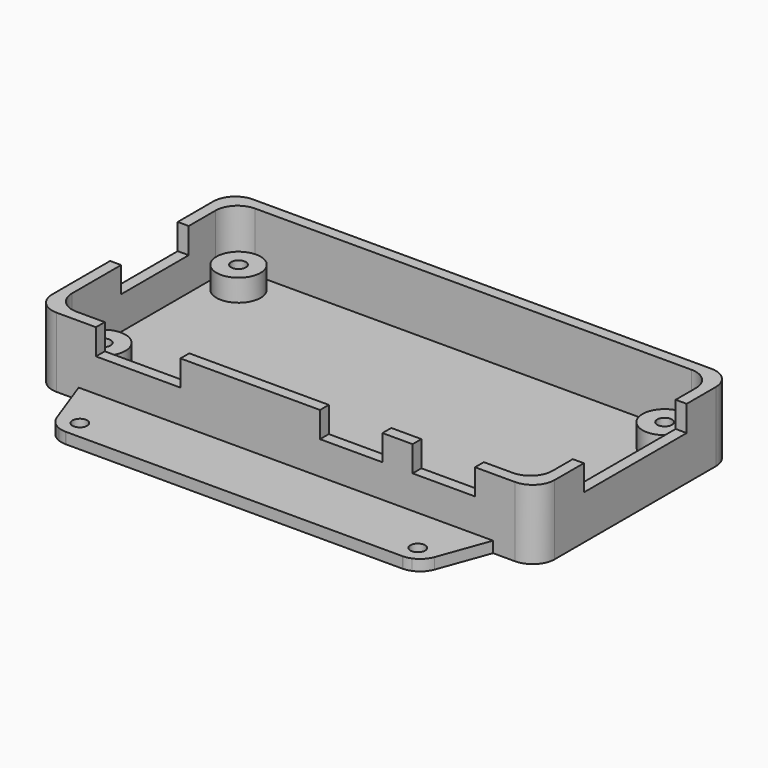
from build123d import *

# Parameters (mm, degrees)
F0_R     = 3
F0_W     = 19
F0_H     = 1.5
F0_R_2   = 1
F0_W_2   = 1.5
F0_H_2   = 17.5
F0_H_3   = 11.5
F0_W_3   = 11.5
F0_W_4   = 8.5
F0_W_5   = 4.1
F1_DEPTH = 1.5
F2_DEPTH = 3
F3_DEPTH = 8
F4_DEPTH = 4.5
F5_R     = 1
F6_DEPTH = 1.5


with BuildPart() as f1:
    # F0 (on Top) → F1 (new body)
    with BuildSketch(Plane.XY):
        with BuildLine():
            Line((29.7, 15.2), (-29.7, 15.2))
            ThreePointArc((-29.7, 15.2), (-31.8213203436, 14.3213203436), (-32.7, 12.2))
            Line((-32.7, 12.2), (-32.7, 7.65))
            Line((-32.7, 7.65), (-32.7, -3.85))
            Line((-32.7, -3.85), (-32.7, -12.2))
            ThreePointArc((-32.7, -12.2), (-31.8213203436, -14.3213203436), (-29.7, -15.2))
            Line((-29.7, -15.2), (-25.85, -15.2))
            Line((-25.85, -15.2), (-14.35, -15.2))
            Line((-14.35, -15.2), (4.65, -15.2))
            Line((4.65, -15.2), (13.15, -15.2))
            Line((13.15, -15.2), (17.25, -15.2))
            Line((17.25, -15.2), (25.75, -15.2))
            Line((25.75, -15.2), (29.7, -15.2))
            ThreePointArc((29.7, -15.2), (31.8213203436, -14.3213203436), (32.7, -12.2))
            Line((32.7, -12.2), (32.7, -8.75))
            Line((32.7, -8.75), (32.7, 8.75))
            Line((32.7, 8.75), (32.7, 12.2))
            ThreePointArc((32.7, 12.2), (31.8213203436, 14.3213203436), (29.7, 15.2))
        make_face()
        with Locations((-29, -11.5)):
            Circle(F0_R, mode=Mode.SUBTRACT)
        with Locations((29, -11.5)):
            Circle(F0_R, mode=Mode.SUBTRACT)
        with Locations((-29, 11.5)):
            Circle(F0_R, mode=Mode.SUBTRACT)
        with Locations((29, 11.5)):
            Circle(F0_R, mode=Mode.SUBTRACT)
        with BuildLine():
            ThreePointArc((-32.7, 12.2), (-31.8213203436, 14.3213203436), (-29.7, 15.2))
            Line((-29.7, 15.2), (29.7, 15.2))
            ThreePointArc((29.7, 15.2), (31.8213203436, 14.3213203436), (32.7, 12.2))
            Line((32.7, 12.2), (32.7, 8.75))
            Line((32.7, 8.75), (34.2, 8.75))
            Line((34.2, 8.75), (34.2, 13.7))
            ThreePointArc((34.2, 13.7), (33.3213203436, 15.8213203436), (31.2, 16.7))
            Line((31.2, 16.7), (-31.2, 16.7))
            ThreePointArc((-31.2, 16.7), (-33.3213203436, 15.8213203436), (-34.2, 13.7))
            Line((-34.2, 13.7), (-34.2, 7.65))
            Line((-34.2, 7.65), (-32.7, 7.65))
            Line((-32.7, 7.65), (-32.7, 12.2))
        make_face()
        with BuildLine():
            Line((-32.7, -12.2), (-32.7, -3.85))
            Line((-32.7, -3.85), (-34.2, -3.85))
            Line((-34.2, -3.85), (-34.2, -13.7))
            ThreePointArc((-34.2, -13.7), (-33.3213203436, -15.8213203436), (-31.2, -16.7))
            Line((-31.2, -16.7), (-25.85, -16.7))
            Line((-25.85, -16.7), (-25.85, -15.2))
            Line((-25.85, -15.2), (-29.7, -15.2))
            ThreePointArc((-29.7, -15.2), (-31.8213203436, -14.3213203436), (-32.7, -12.2))
        make_face()
        with Locations((-4.85, -15.95)):
            Rectangle(F0_W, F0_H)
        with Locations((-29, -11.5)):
            Circle(F0_R)
        with Locations((-29, -11.5)):
            Circle(F0_R_2, mode=Mode.SUBTRACT)
        with Locations((-29, 11.5)):
            Circle(F0_R)
        with Locations((-29, 11.5)):
            Circle(F0_R_2, mode=Mode.SUBTRACT)
        with Locations((29, -11.5)):
            Circle(F0_R)
        with Locations((29, -11.5)):
            Circle(F0_R_2, mode=Mode.SUBTRACT)
        with Locations((29, 11.5)):
            Circle(F0_R)
        with Locations((29, 11.5)):
            Circle(F0_R_2, mode=Mode.SUBTRACT)
        with Locations((33.45, 0)):
            Rectangle(F0_W_2, F0_H_2)
        with BuildLine():
            Line((34.2, -8.75), (32.7, -8.75))
            Line((32.7, -8.75), (32.7, -12.2))
            ThreePointArc((32.7, -12.2), (31.8213203436, -14.3213203436), (29.7, -15.2))
            Line((29.7, -15.2), (25.75, -15.2))
            Line((25.75, -15.2), (25.75, -16.7))
            Line((25.75, -16.7), (31.2, -16.7))
            ThreePointArc((31.2, -16.7), (33.3213203436, -15.8213203436), (34.2, -13.7))
            Line((34.2, -13.7), (34.2, -8.75))
        make_face()
        with Locations((-33.45, 1.9)):
            Rectangle(F0_W_2, F0_H_3)
        with Locations((-20.1, -15.95)):
            Rectangle(F0_W_3, F0_H)
        with Locations((21.5, -15.95)):
            Rectangle(F0_W_4, F0_H)
        with Locations((8.9, -15.95)):
            Rectangle(F0_W_4, F0_H)
        with Locations((15.2, -15.95)):
            Rectangle(F0_W_5, F0_H)
        with Locations((-29, -11.5)):
            Circle(F0_R_2)
        with Locations((-29, 11.5)):
            Circle(F0_R_2)
        with Locations((29, -11.5)):
            Circle(F0_R_2)
        with Locations((29, 11.5)):
            Circle(F0_R_2)
    extrude(amount=-F1_DEPTH)

    # F0 (on Top) → F2 (join)
    with BuildSketch(Plane.XY):
        with Locations((-29, 11.5)):
            Circle(F0_R)
        with Locations((-29, 11.5)):
            Circle(F0_R_2, mode=Mode.SUBTRACT)
        with Locations((-29, -11.5)):
            Circle(F0_R)
        with Locations((-29, -11.5)):
            Circle(F0_R_2, mode=Mode.SUBTRACT)
        with Locations((29, 11.5)):
            Circle(F0_R)
        with Locations((29, 11.5)):
            Circle(F0_R_2, mode=Mode.SUBTRACT)
        with Locations((29, -11.5)):
            Circle(F0_R)
        with Locations((29, -11.5)):
            Circle(F0_R_2, mode=Mode.SUBTRACT)
    extrude(amount=F2_DEPTH)

    # F0 (on Top) → F3 (join)
    with BuildSketch(Plane.XY):
        with BuildLine():
            Line((-32.7, -12.2), (-32.7, -3.85))
            Line((-32.7, -3.85), (-34.2, -3.85))
            Line((-34.2, -3.85), (-34.2, -13.7))
            ThreePointArc((-34.2, -13.7), (-33.3213203436, -15.8213203436), (-31.2, -16.7))
            Line((-31.2, -16.7), (-25.85, -16.7))
            Line((-25.85, -16.7), (-25.85, -15.2))
            Line((-25.85, -15.2), (-29.7, -15.2))
            ThreePointArc((-29.7, -15.2), (-31.8213203436, -14.3213203436), (-32.7, -12.2))
        make_face()
        with BuildLine():
            ThreePointArc((-32.7, 12.2), (-31.8213203436, 14.3213203436), (-29.7, 15.2))
            Line((-29.7, 15.2), (29.7, 15.2))
            ThreePointArc((29.7, 15.2), (31.8213203436, 14.3213203436), (32.7, 12.2))
            Line((32.7, 12.2), (32.7, 8.75))
            Line((32.7, 8.75), (34.2, 8.75))
            Line((34.2, 8.75), (34.2, 13.7))
            ThreePointArc((34.2, 13.7), (33.3213203436, 15.8213203436), (31.2, 16.7))
            Line((31.2, 16.7), (-31.2, 16.7))
            ThreePointArc((-31.2, 16.7), (-33.3213203436, 15.8213203436), (-34.2, 13.7))
            Line((-34.2, 13.7), (-34.2, 7.65))
            Line((-34.2, 7.65), (-32.7, 7.65))
            Line((-32.7, 7.65), (-32.7, 12.2))
        make_face()
        with Locations((-4.85, -15.95)):
            Rectangle(F0_W, F0_H)
        with Locations((15.2, -15.95)):
            Rectangle(F0_W_5, F0_H)
        with BuildLine():
            Line((34.2, -8.75), (32.7, -8.75))
            Line((32.7, -8.75), (32.7, -12.2))
            ThreePointArc((32.7, -12.2), (31.8213203436, -14.3213203436), (29.7, -15.2))
            Line((29.7, -15.2), (25.75, -15.2))
            Line((25.75, -15.2), (25.75, -16.7))
            Line((25.75, -16.7), (31.2, -16.7))
            ThreePointArc((31.2, -16.7), (33.3213203436, -15.8213203436), (34.2, -13.7))
            Line((34.2, -13.7), (34.2, -8.75))
        make_face()
    extrude(amount=F3_DEPTH)

    # F0 (on Top) → F4 (join)
    with BuildSketch(Plane.XY):
        with Locations((-33.45, 1.9)):
            Rectangle(F0_W_2, F0_H_3)
        with Locations((-20.1, -15.95)):
            Rectangle(F0_W_3, F0_H)
        with Locations((8.9, -15.95)):
            Rectangle(F0_W_4, F0_H)
        with Locations((21.5, -15.95)):
            Rectangle(F0_W_4, F0_H)
        with Locations((33.45, 0)):
            Rectangle(F0_W_2, F0_H_2)
    extrude(amount=F4_DEPTH)

    # F5 (on Top) → F6 (join)
    with BuildSketch(Plane.XY):
        with BuildLine():
            Line((28.2029380615, -16.7), (-28.2029380615, -16.7))
            Line((-28.2029380615, -16.7), (-25.7184552477, -23.52606043))
            ThreePointArc((-25.7184552477, -23.52606043), (-25.0528877677, -24.5886342507), (-24.0111634719, -25.2863832647))
            ThreePointArc((-24.0111634719, -25.2863832647), (-24.3642014734, -20.9050168641), (-20.5, -23))
            ThreePointArc((-20.5, -23), (-21.215336344, -24.7507071813), (-22.9519805079, -25.4995387831))
            ThreePointArc((-22.9519805079, -25.4995387831), (-22.9256799576, -25.4998846936), (-22.8993773854, -25.5))
            Line((-22.8993773854, -25.5), (22.8993773854, -25.5))
            ThreePointArc((22.8993773854, -25.5), (22.9256799576, -25.4998846936), (22.9519805079, -25.4995387831))
            ThreePointArc((22.9519805079, -25.4995387831), (21.2492928187, -21.215336344), (25.5, -23))
            ThreePointArc((25.5, -23), (25.0949831359, -24.3642014734), (24.0111634719, -25.2863832647))
            ThreePointArc((24.0111634719, -25.2863832647), (25.0528877677, -24.5886342507), (25.7184552477, -23.52606043))
            Line((25.7184552477, -23.52606043), (28.2029380615, -16.7))
        make_face()
        with BuildLine():
            ThreePointArc((-20.5, -23), (-24.3642014734, -20.9050168641), (-24.0111634719, -25.2863832647))
            ThreePointArc((-24.0111634719, -25.2863832647), (-23.4912467766, -25.441035638), (-22.9519805079, -25.4995387831))
            ThreePointArc((-22.9519805079, -25.4995387831), (-21.215336344, -24.7507071813), (-20.5, -23))
        make_face()
        with Locations((-23, -23)):
            Circle(F5_R, mode=Mode.SUBTRACT)
        with BuildLine():
            ThreePointArc((22.9519805079, -25.4995387831), (23.4912467766, -25.441035638), (24.0111634719, -25.2863832647))
            ThreePointArc((24.0111634719, -25.2863832647), (25.0949831359, -24.3642014734), (25.5, -23))
            ThreePointArc((25.5, -23), (21.2492928187, -21.215336344), (22.9519805079, -25.4995387831))
        make_face()
        with Locations((23, -23)):
            Circle(F5_R, mode=Mode.SUBTRACT)
        with BuildLine():
            Line((-25.7184552477, 23.52606043), (-28.2029380615, 16.7))
            Line((-28.2029380615, 16.7), (28.2029380615, 16.7))
            Line((28.2029380615, 16.7), (25.7184552477, 23.52606043))
            ThreePointArc((25.7184552477, 23.52606043), (25.0528877677, 24.5886342507), (24.0111634719, 25.2863832647))
            ThreePointArc((24.0111634719, 25.2863832647), (25.0949831359, 24.3642014734), (25.5, 23))
            ThreePointArc((25.5, 23), (21.2492928187, 21.215336344), (22.9519805079, 25.4995387831))
            ThreePointArc((22.9519805079, 25.4995387831), (22.9256799576, 25.4998846936), (22.8993773854, 25.5))
            Line((22.8993773854, 25.5), (-22.8993773854, 25.5))
            ThreePointArc((-22.8993773854, 25.5), (-22.9256799576, 25.4998846936), (-22.9519805079, 25.4995387831))
            ThreePointArc((-22.9519805079, 25.4995387831), (-21.215336344, 24.7507071813), (-20.5, 23))
            ThreePointArc((-20.5, 23), (-24.3642014734, 20.9050168641), (-24.0111634719, 25.2863832647))
            ThreePointArc((-24.0111634719, 25.2863832647), (-25.0528877677, 24.5886342507), (-25.7184552477, 23.52606043))
        make_face()
        with BuildLine():
            ThreePointArc((-22.9519805079, 25.4995387831), (-23.4912467766, 25.441035638), (-24.0111634719, 25.2863832647))
            ThreePointArc((-24.0111634719, 25.2863832647), (-24.3642014734, 20.9050168641), (-20.5, 23))
            ThreePointArc((-20.5, 23), (-21.215336344, 24.7507071813), (-22.9519805079, 25.4995387831))
        make_face()
        with Locations((-23, 23)):
            Circle(F5_R, mode=Mode.SUBTRACT)
        with BuildLine():
            ThreePointArc((25.5, 23), (25.0949831359, 24.3642014734), (24.0111634719, 25.2863832647))
            ThreePointArc((24.0111634719, 25.2863832647), (23.4912467766, 25.441035638), (22.9519805079, 25.4995387831))
            ThreePointArc((22.9519805079, 25.4995387831), (21.2492928187, 21.215336344), (25.5, 23))
        make_face()
        with Locations((23, 23)):
            Circle(F5_R, mode=Mode.SUBTRACT)
    extrude(amount=-F6_DEPTH)


solid = f1.part
